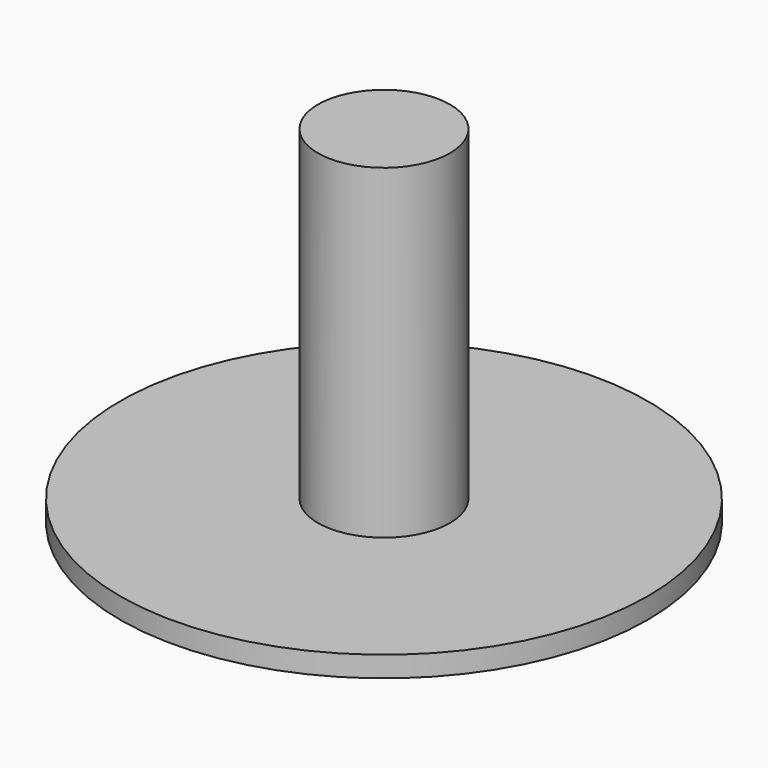
from build123d import *


with BuildPart() as part:
    # Sketch → Revolution (revolve)
    with BuildSketch(Plane.XZ):
        Polygon((0, 0), (0, -53), (4, -53), (4, -50), (38.1, -50), (38.1, -47), (9.525, -47), (9.525, 0), align=None)
    revolve(axis=Axis((0, 0, 0), (0, 0, 1)))


solid = part.part
